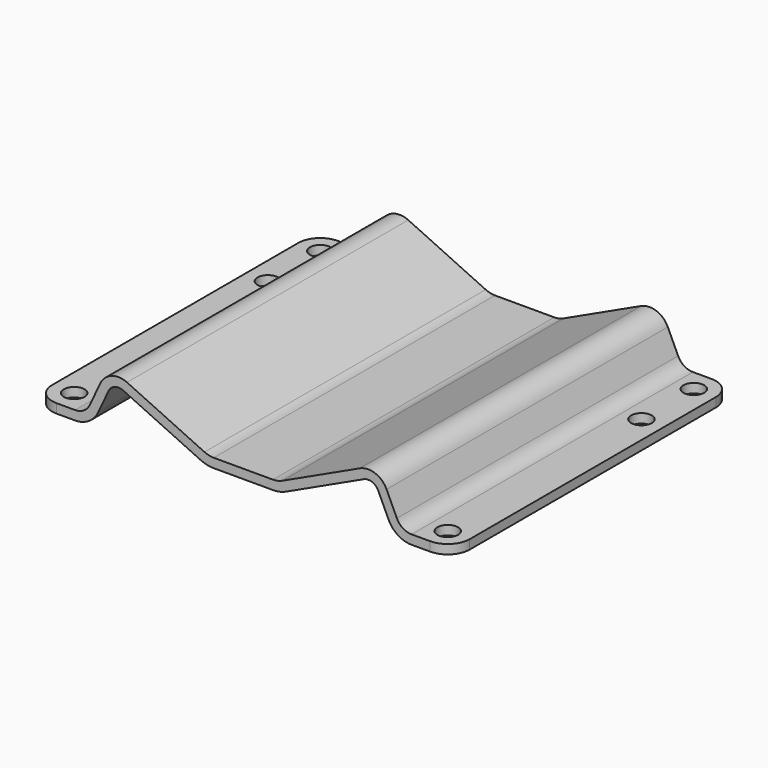
from build123d import *

# Parameters (mm, degrees)
F1_DEPTH = 203.2
F2_R     = 5.9944
F3_DEPTH = 34.085578
F4_R     = 6.35
F5_R     = 11.6586
F6_R     = 12.7
F7_R     = 18.0086
F8_R     = 9.398
F9_R     = 14.7066
F10_R    = 12.7


with BuildPart() as f1:
    # F0 (on Front) → F1 (new body)
    with BuildSketch(Plane.XZ):
        Polygon((77.8321, -97.893822), (19.934749, -124.8918), (0, -124.8918), (-19.934749, -124.8918), (-77.8321, -97.893822), (-91.250559, -126.6698), (-120.65, -126.6698), (-120.65, -131.9784), (-87.868608, -131.9784), (-75.264386, -104.948559), (-21.111638, -130.2004), (0, -130.2004), (21.111638, -130.2004), (75.264386, -104.948559), (87.868608, -131.9784), (120.65, -131.9784), (120.65, -126.6698), (91.250559, -126.6698), align=None)
    extrude(amount=-F1_DEPTH)

    # F2 (on face) → F3 (cut, through all)
    with BuildSketch(Plane(origin=(0, 0, -131.9784), x_dir=(1, 0, 0), z_dir=(0, 0, -1))):
        with Locations((107.95, -12.7)):
            Circle(F2_R)
        with Locations((107.95, -152.6794)):
            Circle(F2_R)
        with Locations((107.95, -190.5)):
            Circle(F2_R)
        with Locations((-107.95, -190.5)):
            Circle(F2_R)
        with Locations((-107.95, -152.6794)):
            Circle(F2_R)
        with Locations((-107.95, -12.7)):
            Circle(F2_R)
    extrude(amount=-F3_DEPTH, mode=Mode.SUBTRACT)

    # F4
    f4_edges = [f1.edges().sort_by_distance(p)[0] for p in [
        (-75.264386, 101.6, -104.948559),
        (75.264386, 101.6, -104.948559),
    ]]
    fillet(f4_edges, radius=F4_R)

    # F5
    f5_edges = [f1.edges().sort_by_distance(p)[0] for p in [
        (77.8321, 101.6, -97.893822),
        (-77.8321, 101.6, -97.893822),
    ]]
    fillet(f5_edges, radius=F5_R)

    # F6
    f6_edges = [f1.edges().sort_by_distance(p)[0] for p in [
        (-19.934749, 101.6, -124.8918),
        (19.934749, 101.6, -124.8918),
    ]]
    fillet(f6_edges, radius=F6_R)

    # F7
    f7_edges = [f1.edges().sort_by_distance(p)[0] for p in [
        (-21.111638, 101.6, -130.2004),
        (21.111638, 101.6, -130.2004),
    ]]
    fillet(f7_edges, radius=F7_R)

    # F8
    f8_edges = [f1.edges().sort_by_distance(p)[0] for p in [
        (-91.250559, 101.6, -126.6698),
        (91.250559, 101.6, -126.6698),
    ]]
    fillet(f8_edges, radius=F8_R)

    # F9
    f9_edges = [f1.edges().sort_by_distance(p)[0] for p in [
        (-87.868608, 101.6, -131.9784),
        (87.868608, 101.6, -131.9784),
    ]]
    fillet(f9_edges, radius=F9_R)

    # F10
    f10_edges = [f1.edges().sort_by_distance(p)[0] for p in [
        (-120.65, 0, -129.3241),
        (120.65, 0, -129.3241),
        (-120.65, 203.2, -129.3241),
        (120.65, 203.2, -129.3241),
    ]]
    fillet(f10_edges, radius=F10_R)


solid = f1.part
